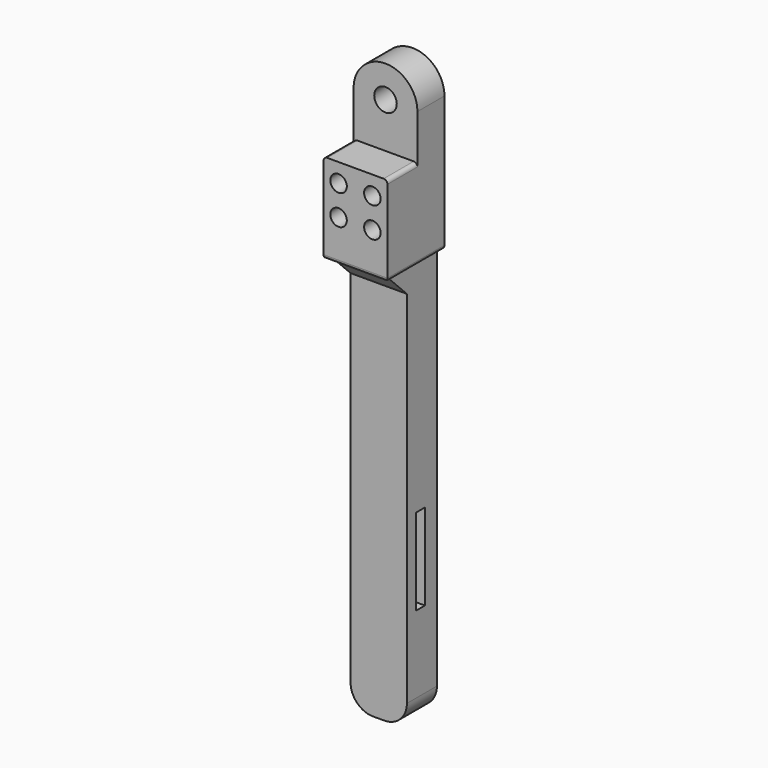
from build123d import *

# Parameters (mm, degrees)
CYLINDER042_R                 = 2.2
CYLINDER042_DEPTH             = 26
CYLINDER042_ROLL_ANGLE        = -90
ARRAY009_X_COUNT              = 2
ARRAY009_X_PITCH              = 8
ARRAY009_Z_COUNT              = 2
ARRAY009_Z_PITCH              = 9
BOX033_W                      = 23
BOX033_H                      = 3
BOX033_DEPTH                  = 20
BOX030_W                      = 130
BOX030_H                      = 10
BOX030_DEPTH                  = 15
SKETCH026_R                   = 3
PAD026_DEPTH                  = 9
FILLET011_R                   = 1
BOX031_W                      = 24
BOX031_H                      = 10
BOX031_DEPTH                  = 17
FILLET012_R                   = 1
CHAMFER002_SIZE               = 7
FILLET013_R                   = 6
PART_MIRRORING004_PITCH_ANGLE = 90


with BuildPart() as obj1:
    # Cylinder042 → Cylinder042 (new body)
    with BuildSketch(Plane.XY):
        Circle(CYLINDER042_R)
    extrude(amount=CYLINDER042_DEPTH)


with BuildPart() as obj1_1:
    # Cylinder042 roll: moved
    add(obj1.part.rotate(Axis((0, 0, 0), (1, 0, 0)), CYLINDER042_ROLL_ANGLE))


with BuildPart() as obj1_2:
    # Cylinder042 placement: moved
    add(obj1_1.part.moved(Location((202, 0, 4))))

    # Array009 X: obj1_2


with BuildPart() as obj1_3:
    add(obj1_2.part)
    with Locations(*[(i * ARRAY009_X_PITCH, 0, 0) for i in range(1, ARRAY009_X_COUNT)]):
        add(obj1_2.part)

    # Array009 Z: obj1_2


with BuildPart() as obj1_4:
    add(obj1_3.part)
    with Locations(*[(0, 0, i * ARRAY009_Z_PITCH) for i in range(1, ARRAY009_Z_COUNT)]):
        add(obj1_3.part)


with BuildPart() as obj2:
    # Box033 → Box033 (new body)
    with BuildSketch(Plane(origin=(280.5, 5, 0), x_dir=(1, 0, 0), z_dir=(0, 0, 1))):
        with Locations((11.5, 1.5)):
            Rectangle(BOX033_W, BOX033_H)
    extrude(amount=BOX033_DEPTH)


with BuildPart() as base_tibia001:
    # Box030 → Box030 (new body)
    with BuildSketch(Plane(origin=(200, 1.5, 0), x_dir=(1, 0, 0), z_dir=(0, 0, 1))):
        with Locations((65, 5)):
            Rectangle(BOX030_W, BOX030_H)
    extrude(amount=BOX030_DEPTH)


with BuildPart() as obj3:
    # Sketch026 → Pad026 (new body)
    with BuildSketch(Plane(origin=(221, 10.5, 0), x_dir=(1, 0, 0), z_dir=(0, -1, 0))):
        with BuildLine():
            Line((0, 17), (-36, 17))
            ThreePointArc((-36, 17), (-44.500015, 8.5), (-36, 0))
            Line((-36, 0), (0, 0))
            Line((0, 0), (0, 17))
        make_face()
        with Locations((-36.000015, 8.5)):
            Circle(SKETCH026_R, mode=Mode.SUBTRACT)
    extrude(amount=PAD026_DEPTH)

    # Fillet011
    fillet011_edges = [obj3.edges().sort_by_distance(p)[0] for p in [
        (221, 6, 17),
        (221, 6, 0),
    ]]
    fillet(fillet011_edges, radius=FILLET011_R)

    # Fusion009003030: union Base_tibia001
    add(base_tibia001.part)


with BuildPart() as obj3_1:
    # Fusion009003030 placement: moved
    add(obj3.part.moved(Location((0, -0.5, 0))))

    # Cut024: cut obj2
    add(obj2.part, mode=Mode.SUBTRACT)


with BuildPart() as obj4:
    # Box031 → Box031 (new body)
    with BuildSketch(Plane(origin=(197, 10, 0), x_dir=(1, 0, 0), z_dir=(0, 0, 1))):
        with Locations((12, 5)):
            Rectangle(BOX031_W, BOX031_H)
    extrude(amount=BOX031_DEPTH)

    # Fillet012
    fillet012_edges = [obj4.edges().sort_by_distance(p)[0] for p in [
        (197, 15, 17),
        (197, 15, 0),
        (221, 15, 17),
        (221, 20, 8.5),
    ]]
    fillet(fillet012_edges, radius=FILLET012_R)

    # Fusion009003035: union obj3
    add(obj3_1.part)

    # Chamfer002
    chamfer002_edges = [obj4.edges().sort_by_distance(p)[0] for p in [
        (221, 11, 7.5),
    ]]
    chamfer(chamfer002_edges, length=CHAMFER002_SIZE)

    # Cut025: cut obj1
    add(obj1_4.part, mode=Mode.SUBTRACT)

    # Fillet013
    fillet013_edges = [obj4.edges().sort_by_distance(p)[0] for p in [
        (330, 6, 0),
        (330, 6, 15),
    ]]
    fillet(fillet013_edges, radius=FILLET013_R)


with BuildPart() as part_mirroring004:
    # Part__Mirroring004: instance of obj4
    add(obj4.part.mirror(Plane(origin=(0, 0, 0), x_dir=(1, 0, 0), z_dir=(0, 1, 0))))


with BuildPart() as part_mirroring004_1:
    # Part__Mirroring004 pitch: moved
    add(part_mirroring004.part.rotate(Axis((0, 0, 0), (0, 1, 0)), PART_MIRRORING004_PITCH_ANGLE))


with BuildPart() as part_mirroring004_2:
    # Part__Mirroring004 placement: moved
    add(part_mirroring004_1.part.moved(Location((359, -63, 326))))


solid = part_mirroring004_2.part
